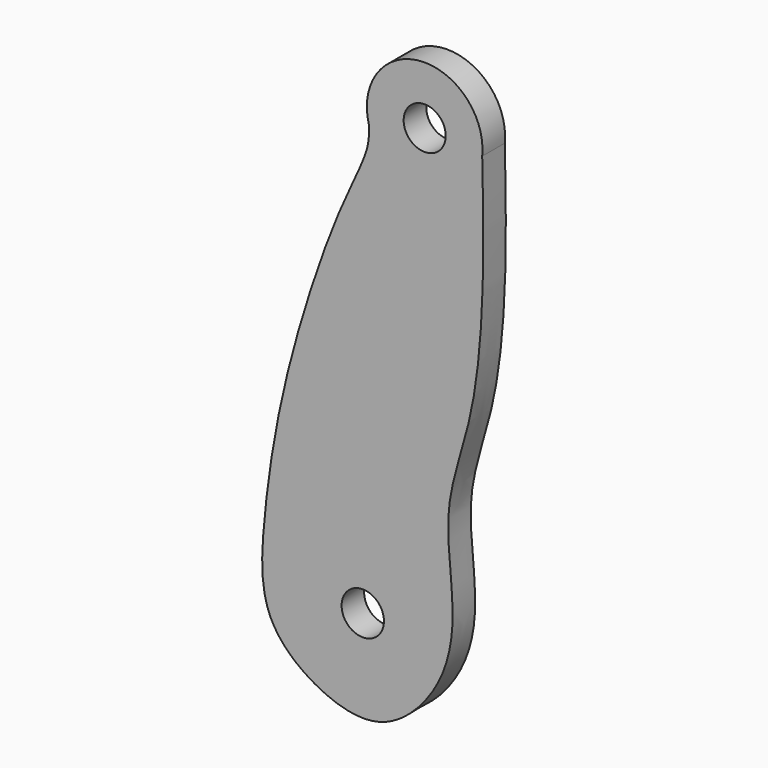
from build123d import *

# Parameters (mm, degrees)
F0_R     = 1.5
F0_R_2   = 1.4907011494
F1_DEPTH = 2
F2_SCALE = 10
F3_SCALE = 1.5


with BuildPart() as f1:
    # F0 (on Front) → F1 (new body)
    with BuildSketch(Plane.XZ):
        with BuildLine():
            add(Edge.make_bspline(
                [(-1.9934392246, 11.4992966521), (-1.9778234301, 11.0537563596), (-1.9328470707, 9.7973229862), (-4.422273433, 5.2448597233), (-8.1534869757, -6.0435064999), (-9.5229144274, -15.4095811785), (-9.7599168494, -21.8192421108), (-5.4195320689, -25.2634475295), (-0.7193857979, -26.2347245509), (3.3756847982, -21.9664220535), (4.2885806901, -16.8428467126), (3.076490926, -10.6214796155), (5.4745420866, -4.6614133554), (6.2149393158, 3.6713603152), (6.0977236967, 9.3051010181), (6.0368302276, 12.1450511591)],
                knots=[0, 0, 0, 0, 0.0377236944, 0.1063896299, 0.2153358607, 0.3132444228, 0.3883525159, 0.4577803987, 0.5225064202, 0.59354419, 0.6641295917, 0.7409190394, 0.8190744706, 0.9087995942, 1, 1, 1, 1], degree=3))
            ThreePointArc((6.0368302276, 12.1450511591), (1.6329156335, 16.6568395007), (-1.9934392246, 11.4992966521))
        make_face()
        with Locations((-2.4252786789, -19.1156926827)):
            Circle(F0_R, mode=Mode.SUBTRACT)
        with Locations((1.9613785088, 12.5722448676)):
            Circle(F0_R_2, mode=Mode.SUBTRACT)
    extrude(amount=F1_DEPTH)


with BuildPart() as f1_1:
    # F2: moved
    add(f1.part.scale(F2_SCALE))


with BuildPart() as f1_2:
    # F3: moved
    add(f1_1.part.scale(F3_SCALE))


solid = f1_2.part
